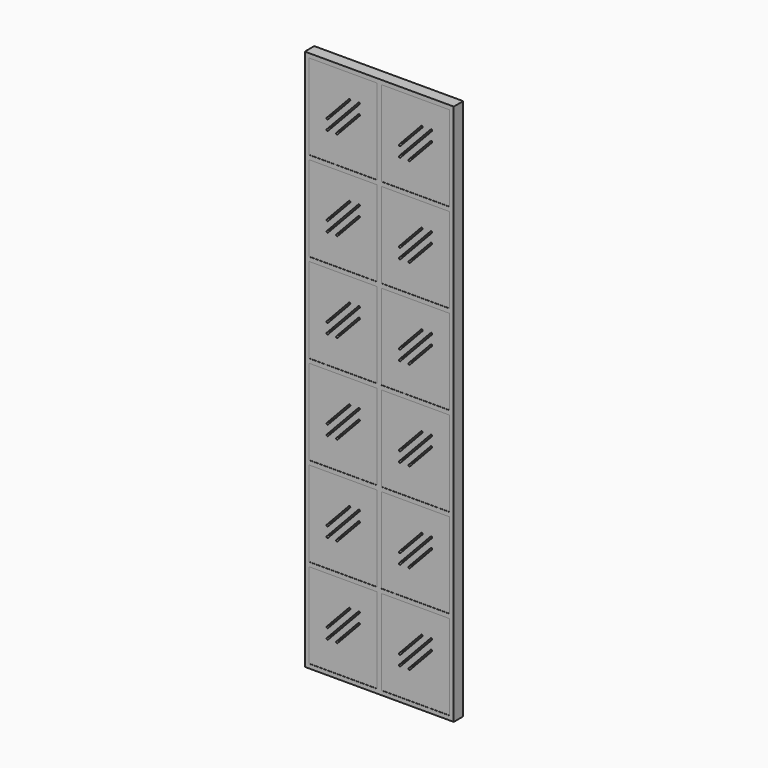
from build123d import *

# Parameters (mm, degrees)
F0_W          = 558.8
F0_H          = 2032
F0_W_2        = 255.5875
F0_H_2        = 320.1458333333
F1_DEPTH      = 22.225
F1_DEPTH_BACK = 22.225
F2_W          = 255.5875
F2_H          = 320.1458333333
F3_DEPTH      = 21.59
F3_DEPTH_BACK = 21.59


with BuildPart() as f1:
    # F0 (on Front) → F1 (new body, two sides)
    with BuildSketch(Plane.XZ) as f1_sk:
        with Locations((279.4, 1016)):
            Rectangle(F0_W, F0_H)
        with Locations((143.66875, 175.9479166667)):
            Rectangle(F0_W_2, F0_H_2, mode=Mode.SUBTRACT)
        with Locations((143.66875, 511.96875)):
            Rectangle(F0_W_2, F0_H_2, mode=Mode.SUBTRACT)
        with Locations((143.66875, 847.9895833333)):
            Rectangle(F0_W_2, F0_H_2, mode=Mode.SUBTRACT)
        with Locations((415.13125, 175.9479166667)):
            Rectangle(F0_W_2, F0_H_2, mode=Mode.SUBTRACT)
        with Locations((415.13125, 511.96875)):
            Rectangle(F0_W_2, F0_H_2, mode=Mode.SUBTRACT)
        with Locations((415.13125, 847.9895833333)):
            Rectangle(F0_W_2, F0_H_2, mode=Mode.SUBTRACT)
        with Locations((143.66875, 1184.0104166667)):
            Rectangle(F0_W_2, F0_H_2, mode=Mode.SUBTRACT)
        with Locations((143.66875, 1520.03125)):
            Rectangle(F0_W_2, F0_H_2, mode=Mode.SUBTRACT)
        with Locations((143.66875, 1856.0520833333)):
            Rectangle(F0_W_2, F0_H_2, mode=Mode.SUBTRACT)
        with Locations((415.13125, 1184.0104166667)):
            Rectangle(F0_W_2, F0_H_2, mode=Mode.SUBTRACT)
        with Locations((415.13125, 1520.03125)):
            Rectangle(F0_W_2, F0_H_2, mode=Mode.SUBTRACT)
        with Locations((415.13125, 1856.0520833333)):
            Rectangle(F0_W_2, F0_H_2, mode=Mode.SUBTRACT)
    extrude(amount=F1_DEPTH)
    extrude(f1_sk.sketch, amount=-F1_DEPTH_BACK)

    # F2 (on Front) → F3 (join, two sides)
    with BuildSketch(Plane.XZ) as f3_sk:
        with Locations((143.66875, 1520.03125)):
            Rectangle(F2_W, F2_H)
        with BuildLine():
            Line((117.8679634776, 1466.1365351889), (200.6253601771, 1554.2491351889))
            ThreePointArc((200.6253601771, 1554.2491351889), (205.1132846555, 1554.3897903562), (205.2539398229, 1549.9018658778))
            Line((205.2539398229, 1549.9018658778), (122.4965431233, 1461.7892658778))
            ThreePointArc((122.4965431233, 1461.7892658778), (118.0086186449, 1461.6486107105), (117.8679634776, 1466.1365351889))
        make_face(mode=Mode.SUBTRACT)
        with BuildLine():
            Line((82.0835601771, 1504.2365351889), (164.8409568767, 1592.3491351889))
            ThreePointArc((164.8409568767, 1592.3491351889), (169.3288813551, 1592.4897903562), (169.4695365224, 1588.0018658778))
            Line((169.4695365224, 1588.0018658778), (86.7121398229, 1499.8892658778))
            ThreePointArc((86.7121398229, 1499.8892658778), (82.2242153445, 1499.7486107105), (82.0835601771, 1504.2365351889))
        make_face(mode=Mode.SUBTRACT)
        with BuildLine():
            ThreePointArc((200.6253601771, 1592.3491351889), (205.1132846555, 1592.4897903562), (205.2539398229, 1588.0018658778))
            Line((205.2539398229, 1588.0018658778), (86.7121398229, 1461.7892658778))
            ThreePointArc((86.7121398229, 1461.7892658778), (82.2242153445, 1461.6486107105), (82.0835601771, 1466.1365351889))
            Line((82.0835601771, 1466.1365351889), (200.6253601771, 1592.3491351889))
        make_face(mode=Mode.SUBTRACT)
        with Locations((415.13125, 1520.03125)):
            Rectangle(F2_W, F2_H)
        with BuildLine():
            Line((389.3304634776, 1466.1365351889), (472.0878601771, 1554.2491351889))
            ThreePointArc((472.0878601771, 1554.2491351889), (476.5757846555, 1554.3897903562), (476.7164398229, 1549.9018658778))
            Line((476.7164398229, 1549.9018658778), (393.9590431233, 1461.7892658778))
            ThreePointArc((393.9590431233, 1461.7892658778), (389.4711186449, 1461.6486107105), (389.3304634776, 1466.1365351889))
        make_face(mode=Mode.SUBTRACT)
        with BuildLine():
            Line((353.5460601771, 1504.2365351889), (436.3034568767, 1592.3491351889))
            ThreePointArc((436.3034568767, 1592.3491351889), (440.7913813551, 1592.4897903562), (440.9320365224, 1588.0018658778))
            Line((440.9320365224, 1588.0018658778), (358.1746398229, 1499.8892658778))
            ThreePointArc((358.1746398229, 1499.8892658778), (353.6867153445, 1499.7486107105), (353.5460601771, 1504.2365351889))
        make_face(mode=Mode.SUBTRACT)
        with BuildLine():
            ThreePointArc((472.0878601771, 1592.3491351889), (476.5757846555, 1592.4897903562), (476.7164398229, 1588.0018658778))
            Line((476.7164398229, 1588.0018658778), (358.1746398229, 1461.7892658778))
            ThreePointArc((358.1746398229, 1461.7892658778), (353.6867153445, 1461.6486107105), (353.5460601771, 1466.1365351889))
            Line((353.5460601771, 1466.1365351889), (472.0878601771, 1592.3491351889))
        make_face(mode=Mode.SUBTRACT)
        with Locations((415.13125, 1184.0104166667)):
            Rectangle(F2_W, F2_H)
        with BuildLine():
            Line((353.5460601771, 1168.2156933889), (436.3034568767, 1256.3282933889))
            ThreePointArc((436.3034568767, 1256.3282933889), (440.7913813551, 1256.4689485562), (440.9320365224, 1251.9810240778))
            Line((440.9320365224, 1251.9810240778), (358.1746398229, 1163.8684240778))
            ThreePointArc((358.1746398229, 1163.8684240778), (353.6867153445, 1163.7277689105), (353.5460601771, 1168.2156933889))
        make_face(mode=Mode.SUBTRACT)
        with BuildLine():
            ThreePointArc((472.0878601771, 1256.3282933889), (476.5757846555, 1256.4689485562), (476.7164398229, 1251.9810240778))
            Line((476.7164398229, 1251.9810240778), (358.1746398229, 1125.7684240778))
            ThreePointArc((358.1746398229, 1125.7684240778), (353.6867153445, 1125.6277689105), (353.5460601771, 1130.1156933889))
            Line((353.5460601771, 1130.1156933889), (472.0878601771, 1256.3282933889))
        make_face(mode=Mode.SUBTRACT)
        with BuildLine():
            Line((389.3304634776, 1130.1156933889), (472.0878601771, 1218.2282933889))
            ThreePointArc((472.0878601771, 1218.2282933889), (476.5757846555, 1218.3689485562), (476.7164398229, 1213.8810240778))
            Line((476.7164398229, 1213.8810240778), (393.9590431233, 1125.7684240778))
            ThreePointArc((393.9590431233, 1125.7684240778), (389.4711186449, 1125.6277689105), (389.3304634776, 1130.1156933889))
        make_face(mode=Mode.SUBTRACT)
        with Locations((143.66875, 1184.0104166667)):
            Rectangle(F2_W, F2_H)
        with BuildLine():
            ThreePointArc((200.6253601771, 1256.3282933889), (205.1132846555, 1256.4689485562), (205.2539398229, 1251.9810240778))
            Line((205.2539398229, 1251.9810240778), (86.7121398229, 1125.7684240778))
            ThreePointArc((86.7121398229, 1125.7684240778), (82.2242153445, 1125.6277689105), (82.0835601771, 1130.1156933889))
            Line((82.0835601771, 1130.1156933889), (200.6253601771, 1256.3282933889))
        make_face(mode=Mode.SUBTRACT)
        with BuildLine():
            Line((82.0835601771, 1168.2156933889), (164.8409568767, 1256.3282933889))
            ThreePointArc((164.8409568767, 1256.3282933889), (169.3288813551, 1256.4689485562), (169.4695365224, 1251.9810240778))
            Line((169.4695365224, 1251.9810240778), (86.7121398229, 1163.8684240778))
            ThreePointArc((86.7121398229, 1163.8684240778), (82.2242153445, 1163.7277689105), (82.0835601771, 1168.2156933889))
        make_face(mode=Mode.SUBTRACT)
        with BuildLine():
            Line((117.8679634776, 1130.1156933889), (200.6253601771, 1218.2282933889))
            ThreePointArc((200.6253601771, 1218.2282933889), (205.1132846555, 1218.3689485562), (205.2539398229, 1213.8810240778))
            Line((205.2539398229, 1213.8810240778), (122.4965431233, 1125.7684240778))
            ThreePointArc((122.4965431233, 1125.7684240778), (118.0086186449, 1125.6277689105), (117.8679634776, 1130.1156933889))
        make_face(mode=Mode.SUBTRACT)
        with Locations((143.66875, 847.9895833333)):
            Rectangle(F2_W, F2_H)
        with BuildLine():
            Line((82.0835601771, 832.1948515889), (164.8409568767, 920.3074515889))
            ThreePointArc((164.8409568767, 920.3074515889), (169.3288813551, 920.4481067562), (169.4695365224, 915.9601822778))
            Line((169.4695365224, 915.9601822778), (86.7121398229, 827.8475822778))
            ThreePointArc((86.7121398229, 827.8475822778), (82.2242153445, 827.7069271105), (82.0835601771, 832.1948515889))
        make_face(mode=Mode.SUBTRACT)
        with BuildLine():
            ThreePointArc((200.6253601771, 920.3074515889), (205.1132846555, 920.4481067562), (205.2539398229, 915.9601822778))
            Line((205.2539398229, 915.9601822778), (86.7121398229, 789.7475822778))
            ThreePointArc((86.7121398229, 789.7475822778), (82.2242153445, 789.6069271105), (82.0835601771, 794.0948515889))
            Line((82.0835601771, 794.0948515889), (200.6253601771, 920.3074515889))
        make_face(mode=Mode.SUBTRACT)
        with BuildLine():
            Line((117.8679634776, 794.0948515889), (200.6253601771, 882.2074515889))
            ThreePointArc((200.6253601771, 882.2074515889), (205.1132846555, 882.3481067562), (205.2539398229, 877.8601822778))
            Line((205.2539398229, 877.8601822778), (122.4965431233, 789.7475822778))
            ThreePointArc((122.4965431233, 789.7475822778), (118.0086186449, 789.6069271105), (117.8679634776, 794.0948515889))
        make_face(mode=Mode.SUBTRACT)
        with Locations((415.13125, 847.9895833333)):
            Rectangle(F2_W, F2_H)
        with BuildLine():
            Line((353.5460601771, 832.1948515889), (436.3034568767, 920.3074515889))
            ThreePointArc((436.3034568767, 920.3074515889), (440.7913813551, 920.4481067562), (440.9320365224, 915.9601822778))
            Line((440.9320365224, 915.9601822778), (358.1746398229, 827.8475822778))
            ThreePointArc((358.1746398229, 827.8475822778), (353.6867153445, 827.7069271105), (353.5460601771, 832.1948515889))
        make_face(mode=Mode.SUBTRACT)
        with BuildLine():
            ThreePointArc((472.0878601771, 920.3074515889), (476.5757846555, 920.4481067562), (476.7164398229, 915.9601822778))
            Line((476.7164398229, 915.9601822778), (358.1746398229, 789.7475822778))
            ThreePointArc((358.1746398229, 789.7475822778), (353.6867153445, 789.6069271105), (353.5460601771, 794.0948515889))
            Line((353.5460601771, 794.0948515889), (472.0878601771, 920.3074515889))
        make_face(mode=Mode.SUBTRACT)
        with BuildLine():
            Line((389.3304634776, 794.0948515889), (472.0878601771, 882.2074515889))
            ThreePointArc((472.0878601771, 882.2074515889), (476.5757846555, 882.3481067562), (476.7164398229, 877.8601822778))
            Line((476.7164398229, 877.8601822778), (393.9590431233, 789.7475822778))
            ThreePointArc((393.9590431233, 789.7475822778), (389.4711186449, 789.6069271105), (389.3304634776, 794.0948515889))
        make_face(mode=Mode.SUBTRACT)
        with Locations((415.13125, 511.96875)):
            Rectangle(F2_W, F2_H)
        with BuildLine():
            Line((389.3304634776, 458.0740097889), (472.0878601771, 546.1866097889))
            ThreePointArc((472.0878601771, 546.1866097889), (476.5757846555, 546.3272649562), (476.7164398229, 541.8393404778))
            Line((476.7164398229, 541.8393404778), (393.9590431233, 453.7267404778))
            ThreePointArc((393.9590431233, 453.7267404778), (389.4711186449, 453.5860853105), (389.3304634776, 458.0740097889))
        make_face(mode=Mode.SUBTRACT)
        with BuildLine():
            Line((353.5460601771, 496.1740097889), (436.3034568767, 584.2866097889))
            ThreePointArc((436.3034568767, 584.2866097889), (440.7913813551, 584.4272649562), (440.9320365224, 579.9393404778))
            Line((440.9320365224, 579.9393404778), (358.1746398229, 491.8267404778))
            ThreePointArc((358.1746398229, 491.8267404778), (353.6867153445, 491.6860853105), (353.5460601771, 496.1740097889))
        make_face(mode=Mode.SUBTRACT)
        with BuildLine():
            ThreePointArc((472.0878601771, 584.2866097889), (476.5757846555, 584.4272649562), (476.7164398229, 579.9393404778))
            Line((476.7164398229, 579.9393404778), (358.1746398229, 453.7267404778))
            ThreePointArc((358.1746398229, 453.7267404778), (353.6867153445, 453.5860853105), (353.5460601771, 458.0740097889))
            Line((353.5460601771, 458.0740097889), (472.0878601771, 584.2866097889))
        make_face(mode=Mode.SUBTRACT)
        with Locations((143.66875, 511.96875)):
            Rectangle(F2_W, F2_H)
        with BuildLine():
            Line((117.8679634776, 458.0740097889), (200.6253601771, 546.1866097889))
            ThreePointArc((200.6253601771, 546.1866097889), (205.1132846555, 546.3272649562), (205.2539398229, 541.8393404778))
            Line((205.2539398229, 541.8393404778), (122.4965431233, 453.7267404778))
            ThreePointArc((122.4965431233, 453.7267404778), (118.0086186449, 453.5860853105), (117.8679634776, 458.0740097889))
        make_face(mode=Mode.SUBTRACT)
        with BuildLine():
            Line((82.0835601771, 496.1740097889), (164.8409568767, 584.2866097889))
            ThreePointArc((164.8409568767, 584.2866097889), (169.3288813551, 584.4272649562), (169.4695365224, 579.9393404778))
            Line((169.4695365224, 579.9393404778), (86.7121398229, 491.8267404778))
            ThreePointArc((86.7121398229, 491.8267404778), (82.2242153445, 491.6860853105), (82.0835601771, 496.1740097889))
        make_face(mode=Mode.SUBTRACT)
        with BuildLine():
            ThreePointArc((200.6253601771, 584.2866097889), (205.1132846555, 584.4272649562), (205.2539398229, 579.9393404778))
            Line((205.2539398229, 579.9393404778), (86.7121398229, 453.7267404778))
            ThreePointArc((86.7121398229, 453.7267404778), (82.2242153445, 453.5860853105), (82.0835601771, 458.0740097889))
            Line((82.0835601771, 458.0740097889), (200.6253601771, 584.2866097889))
        make_face(mode=Mode.SUBTRACT)
        with Locations((143.66875, 175.9479166667)):
            Rectangle(F2_W, F2_H)
        with BuildLine():
            Line((82.0835601771, 160.1531679889), (164.8409568767, 248.2657679889))
            ThreePointArc((164.8409568767, 248.2657679889), (169.3288813551, 248.4064231562), (169.4695365224, 243.9184986778))
            Line((169.4695365224, 243.9184986778), (86.7121398229, 155.8058986778))
            ThreePointArc((86.7121398229, 155.8058986778), (82.2242153445, 155.6652435105), (82.0835601771, 160.1531679889))
        make_face(mode=Mode.SUBTRACT)
        with BuildLine():
            Line((82.0835601771, 122.0531679889), (200.6253601771, 248.2657679889))
            ThreePointArc((200.6253601771, 248.2657679889), (205.1132846555, 248.4064231562), (205.2539398229, 243.9184986778))
            Line((205.2539398229, 243.9184986778), (86.7121398229, 117.7058986778))
            ThreePointArc((86.7121398229, 117.7058986778), (82.2242153445, 117.5652435105), (82.0835601771, 122.0531679889))
        make_face(mode=Mode.SUBTRACT)
        with BuildLine():
            Line((117.8679634776, 122.0531679889), (200.6253601771, 210.1657679889))
            ThreePointArc((200.6253601771, 210.1657679889), (205.1132846555, 210.3064231562), (205.2539398229, 205.8184986778))
            Line((205.2539398229, 205.8184986778), (122.4965431233, 117.7058986778))
            ThreePointArc((122.4965431233, 117.7058986778), (118.0086186449, 117.5652435105), (117.8679634776, 122.0531679889))
        make_face(mode=Mode.SUBTRACT)
        with Locations((415.13125, 175.9479166667)):
            Rectangle(F2_W, F2_H)
        with BuildLine():
            Line((353.5460601771, 160.1531679889), (436.3034568767, 248.2657679889))
            ThreePointArc((436.3034568767, 248.2657679889), (440.7913813551, 248.4064231562), (440.9320365224, 243.9184986778))
            Line((440.9320365224, 243.9184986778), (358.1746398229, 155.8058986778))
            ThreePointArc((358.1746398229, 155.8058986778), (353.6867153445, 155.6652435105), (353.5460601771, 160.1531679889))
        make_face(mode=Mode.SUBTRACT)
        with BuildLine():
            ThreePointArc((472.0878601771, 248.2657679889), (476.5757846555, 248.4064231562), (476.7164398229, 243.9184986778))
            Line((476.7164398229, 243.9184986778), (358.1746398229, 117.7058986778))
            ThreePointArc((358.1746398229, 117.7058986778), (353.6867153445, 117.5652435105), (353.5460601771, 122.0531679889))
            Line((353.5460601771, 122.0531679889), (472.0878601771, 248.2657679889))
        make_face(mode=Mode.SUBTRACT)
        with BuildLine():
            Line((389.3304634776, 122.0531679889), (472.0878601771, 210.1657679889))
            ThreePointArc((472.0878601771, 210.1657679889), (476.5757846555, 210.3064231562), (476.7164398229, 205.8184986778))
            Line((476.7164398229, 205.8184986778), (393.9590431233, 117.7058986778))
            ThreePointArc((393.9590431233, 117.7058986778), (389.4711186449, 117.5652435105), (389.3304634776, 122.0531679889))
        make_face(mode=Mode.SUBTRACT)
        with Locations((143.66875, 1856.0520833333)):
            Rectangle(F2_W, F2_H)
        with BuildLine():
            Line((82.0835601771, 1840.2573769889), (164.8409568767, 1928.3699769889))
            ThreePointArc((164.8409568767, 1928.3699769889), (169.3288813551, 1928.5106321562), (169.4695365224, 1924.0227076778))
            Line((169.4695365224, 1924.0227076778), (86.7121398229, 1835.9101076778))
            ThreePointArc((86.7121398229, 1835.9101076778), (82.2242153445, 1835.7694525105), (82.0835601771, 1840.2573769889))
        make_face(mode=Mode.SUBTRACT)
        with BuildLine():
            ThreePointArc((200.6253601771, 1928.3699769889), (205.1132846555, 1928.5106321562), (205.2539398229, 1924.0227076778))
            Line((205.2539398229, 1924.0227076778), (86.7121398229, 1797.8101076778))
            ThreePointArc((86.7121398229, 1797.8101076778), (82.2242153445, 1797.6694525105), (82.0835601771, 1802.1573769889))
            Line((82.0835601771, 1802.1573769889), (200.6253601771, 1928.3699769889))
        make_face(mode=Mode.SUBTRACT)
        with BuildLine():
            Line((117.8679634776, 1802.1573769889), (200.6253601771, 1890.2699769889))
            ThreePointArc((200.6253601771, 1890.2699769889), (205.1132846555, 1890.4106321562), (205.2539398229, 1885.9227076778))
            Line((205.2539398229, 1885.9227076778), (122.4965431233, 1797.8101076778))
            ThreePointArc((122.4965431233, 1797.8101076778), (118.0086186449, 1797.6694525105), (117.8679634776, 1802.1573769889))
        make_face(mode=Mode.SUBTRACT)
        with Locations((415.13125, 1856.0520833333)):
            Rectangle(F2_W, F2_H)
        with BuildLine():
            Line((353.5460601771, 1840.2573769889), (436.3034568767, 1928.3699769889))
            ThreePointArc((436.3034568767, 1928.3699769889), (440.7913813551, 1928.5106321562), (440.9320365224, 1924.0227076778))
            Line((440.9320365224, 1924.0227076778), (358.1746398229, 1835.9101076778))
            ThreePointArc((358.1746398229, 1835.9101076778), (353.6867153445, 1835.7694525105), (353.5460601771, 1840.2573769889))
        make_face(mode=Mode.SUBTRACT)
        with BuildLine():
            ThreePointArc((472.0878601771, 1928.3699769889), (476.5757846555, 1928.5106321562), (476.7164398229, 1924.0227076778))
            Line((476.7164398229, 1924.0227076778), (358.1746398229, 1797.8101076778))
            ThreePointArc((358.1746398229, 1797.8101076778), (353.6867153445, 1797.6694525105), (353.5460601771, 1802.1573769889))
            Line((353.5460601771, 1802.1573769889), (472.0878601771, 1928.3699769889))
        make_face(mode=Mode.SUBTRACT)
        with BuildLine():
            Line((389.3304634776, 1802.1573769889), (472.0878601771, 1890.2699769889))
            ThreePointArc((472.0878601771, 1890.2699769889), (476.5757846555, 1890.4106321562), (476.7164398229, 1885.9227076778))
            Line((476.7164398229, 1885.9227076778), (393.9590431233, 1797.8101076778))
            ThreePointArc((393.9590431233, 1797.8101076778), (389.4711186449, 1797.6694525105), (389.3304634776, 1802.1573769889))
        make_face(mode=Mode.SUBTRACT)
    extrude(amount=F3_DEPTH)
    extrude(f3_sk.sketch, amount=-F3_DEPTH_BACK)


solid = f1.part
